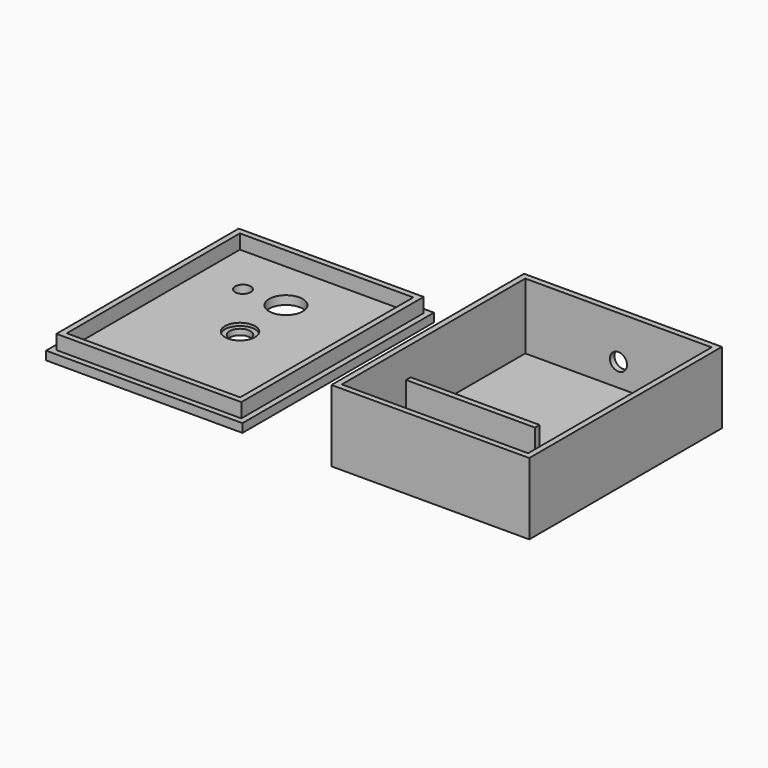
from build123d import *

# Parameters (mm, degrees)
F1_DEPTH = 2
F0_W     = 69
F0_H     = 84
F2_DEPTH = 25
F0_W_2   = 45
F0_H_2   = 2
F3_DEPTH = 15
F0_W_3   = 60.5
F0_H_3   = 75.5
F0_R     = 5.25
F0_R_2   = 2.75
F0_R_3   = 5.875
F4_DEPTH = 3
F0_W_4   = 68.5
F0_H_4   = 83.5
F0_W_5   = 64.5
F0_H_5   = 79.5
F5_DEPTH = 8
F0_R_4   = 3.625
F6_DEPTH = 2
F7_R     = 3
F8_DEPTH = 2


with BuildPart() as f1:
    # F0 (on Top) → F1 (new body)
    with BuildSketch(Plane.XY):
        Polygon((32.5, 40), (-32.5, 40), (-32.5, -10), (12.5, -10), (12.5, -12), (-32.5, -12), (-32.5, -40), (32.5, -40), align=None)
    extrude(amount=F1_DEPTH)

    # F0 (on Top) → F2 (join)
    with BuildSketch(Plane.XY):
        Rectangle(F0_W, F0_H)
        Polygon((-32.5, -10), (-32.5, 40), (32.5, 40), (32.5, -40), (-32.5, -40), (-32.5, -12), align=None, mode=Mode.SUBTRACT)
    extrude(amount=F2_DEPTH)

    # F0 (on Top) → F3 (join)
    with BuildSketch(Plane.XY):
        with Locations((-10, -11)):
            Rectangle(F0_W_2, F0_H_2)
    extrude(amount=F3_DEPTH)

    # F7 (on face) → F8 (cut, through all)
    with BuildSketch(Plane(origin=(0, 42, 0), x_dir=(-1, 0, 0), z_dir=(0, 1, 0))):
        with Locations((0, 10)):
            Circle(F7_R)
    extrude(amount=-F8_DEPTH, mode=Mode.SUBTRACT)


with BuildPart() as f4:
    # F0 (on Top) → F4 (new body)
    with BuildSketch(Plane.XY):
        with Locations((-100, 0)):
            Rectangle(F0_W_3, F0_H_3)
        with Locations((-100, 0)):
            Circle(F0_R, mode=Mode.SUBTRACT)
        with Locations((-115, 20)):
            Circle(F0_R_2, mode=Mode.SUBTRACT)
        with Locations((-100, 20)):
            Circle(F0_R_3, mode=Mode.SUBTRACT)
    extrude(amount=F4_DEPTH)



with BuildPart() as f4b:
    # F0 (on Top) → F4, piece 2 (new body)
    with BuildSketch(Plane.XY):
        with Locations((-100, 0)):
            Rectangle(F0_W_4, F0_H_4)
        with Locations((-100, 0)):
            Rectangle(F0_W_5, F0_H_5, mode=Mode.SUBTRACT)
    extrude(amount=F4_DEPTH)


with BuildPart() as f4_1:
    add(f4.part)

    add(f4b.part)  # F5 merges F4b
    # F0 (on Top) → F5 (join)
    with BuildSketch(Plane.XY):
        with Locations((-100, 0)):
            Rectangle(F0_W_5, F0_H_5)
        with Locations((-100, 0)):
            Rectangle(F0_W_3, F0_H_3, mode=Mode.SUBTRACT)
    extrude(amount=F5_DEPTH)

    # F0 (on Top) → F6 (join)
    with BuildSketch(Plane.XY):
        with Locations((-100, 0)):
            Circle(F0_R)
        with Locations((-100, 0)):
            Circle(F0_R_4, mode=Mode.SUBTRACT)
    extrude(amount=F6_DEPTH)


solid = Compound([f1.part, f4_1.part])
